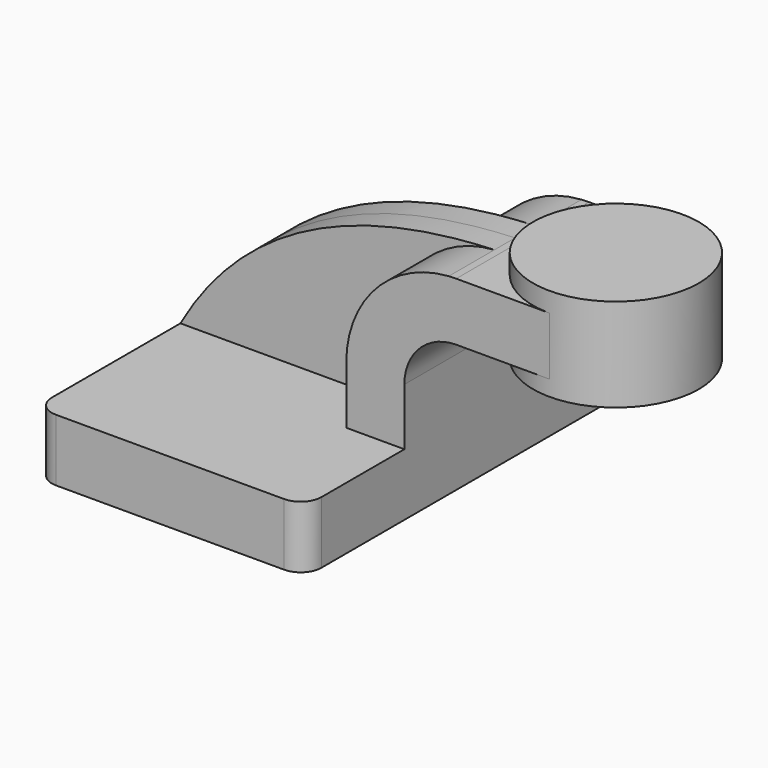
from build123d import *

# Parameters (mm, degrees)
F1_DEPTH = 63.5
F0_W     = 25.4
F0_H     = 17.7990587294
F2_DEPTH = 25.4
F3_DEPTH = 7.9375
F5_R     = 6.35


with BuildPart() as f1:
    # F0 (on Front) → F1 (new body, symmetric)
    with BuildSketch(Plane.XZ):
        Polygon((41.275, -9.525), (41.275, 9.525), (23.4759412706, 9.525), (-41.275, 9.525), (-41.275, -9.525), align=None)
    extrude(amount=F1_DEPTH, both=True)

    # F0 (on Front) → F2 (join, symmetric)
    with BuildSketch(Plane.XZ):
        with BuildLine():
            Line((23.4759412706, 9.525), (41.275, 9.525))
            Line((41.275, 9.525), (41.275, 27.0002))
            ThreePointArc((41.275, 27.0002), (45.9246798487, 38.2255201513), (57.15, 42.8752))
            Line((57.15, 42.8752), (60.325, 42.8752))
            Line((60.325, 42.8752), (60.325, 60.6742587294))
            Line((60.325, 60.6742587294), (57.15, 60.6742587294))
            add(Edge.make_bspline(
                [(54.8666908018, 60.5967583121), (55.6320096109, 60.626907703), (56.3932191874, 60.6526461412), (57.15, 60.6742587294)],
                knots=[108.4021725751, 108.4021725751, 108.4021725751, 108.4021725751, 110.9221677284, 110.9221677284, 110.9221677284, 110.9221677284], degree=3))
            ThreePointArc((54.8666908018, 60.5967583121), (32.5448123422, 49.9899144749), (23.4759412706, 27.0002))
            Line((23.4759412706, 27.0002), (23.4759412706, 9.525))
        make_face()
        with Locations((73.025, 51.7747293647)):
            Rectangle(F0_W, F0_H)
    extrude(amount=F2_DEPTH, both=True)

    # F0 (on Front) → F3 (join, symmetric)
    with BuildSketch(Plane.XZ):
        with BuildLine():
            Line((-41.275, 9.525), (23.4759412706, 9.525))
            Line((23.4759412706, 9.525), (23.4759412706, 27.0002))
            ThreePointArc((23.4759412706, 27.0002), (32.5448123422, 49.9899144749), (54.8666908018, 60.5967583121))
            add(Edge.make_bspline(
                [(-41.275, 9.525), (-18.5803843576, 49.8406641316), (21.9451109713, 59.2998274554), (54.8666908018, 60.5967583121)],
                knots=[0, 0, 0, 0, 108.4021725751, 108.4021725751, 108.4021725751, 108.4021725751], degree=3))
        make_face()
    extrude(amount=F3_DEPTH, both=True)

    # F5
    f5_edges = [f1.edges().sort_by_distance(p)[0] for p in [
        (41.275, -63.5, 0),
        (-41.275, -63.5, 0),
        (41.275, 63.5, 0),
        (-41.275, 63.5, 0),
    ]]
    fillet(f5_edges, radius=F5_R)


with BuildPart() as f4:
    # F0 (on Front) → F4 (revolve)
    with BuildSketch(Plane.XZ):
        Polygon((85.725, 60.6742587294), (85.725, 42.8752), (85.725, 38.1), (111.125, 38.1), (111.125, 66.675), (85.725, 66.675), align=None)
    revolve(axis=Axis((85.725, 0, 52.3875), (0, 0, 1)))


solid = Compound([f1.part, f4.part])
